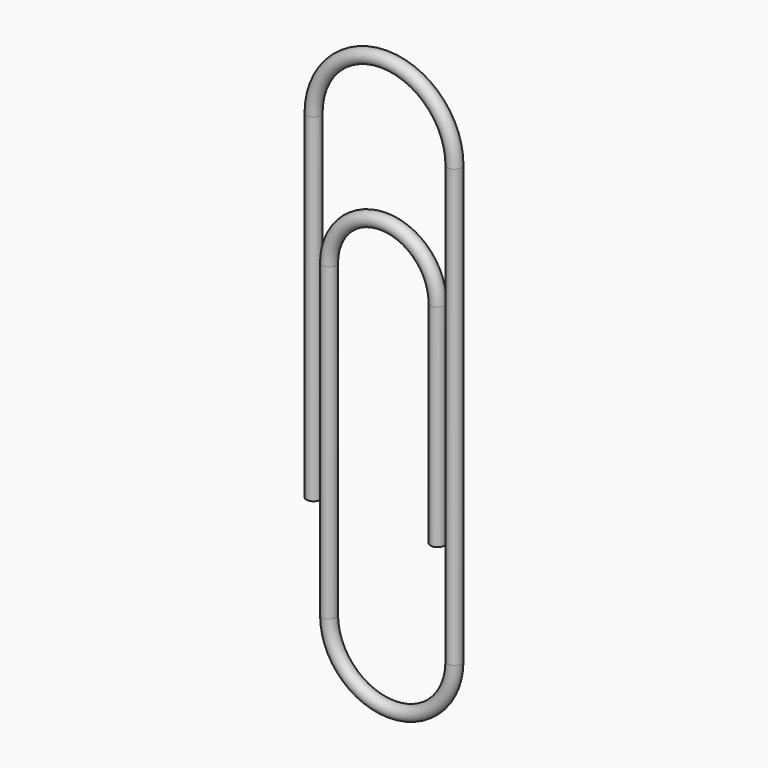
from build123d import *

# Parameters (mm, degrees)
F1_R = 0.5


with BuildPart() as f2:
    # F2: sweep along a path in F0
    with BuildLine(Plane.XZ) as f2_path:
        Line((0, 0), (0, 24))
        ThreePointArc((0, 24), (5, 29), (10, 24))
        Line((10, 24), (10, -7))
        ThreePointArc((10, -7), (5.55, -11.45), (1.1, -7))
        Line((1.1, -7), (1.1, 15))
        ThreePointArc((1.1, 15), (4.95, 18.85), (8.8, 15))
        Line((8.8, 15), (8.8, 0))
    # F1 (on Top) → F2 (sweep)
    with BuildSketch(Plane.XY):
        Circle(F1_R)
    sweep(path=f2_path.line)


solid = f2.part
